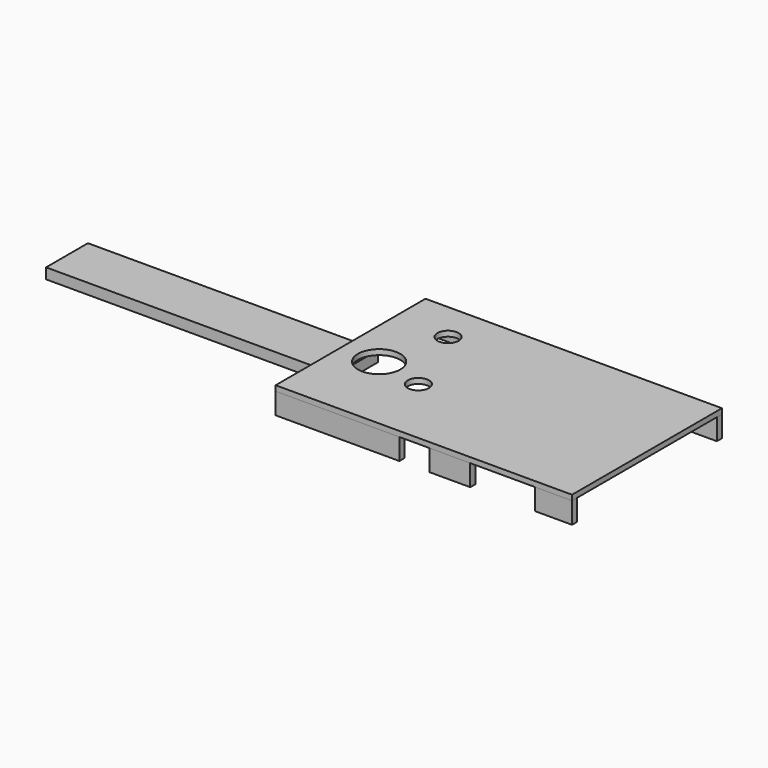
from build123d import *

# Parameters (mm, degrees)
SKETCH003_W       = 7
SKETCH003_H       = 1.2
EXTRUDE024_DEPTH  = 4
SKETCH005_W       = 7.722949
SKETCH005_H       = 1.2
EXTRUDE026_DEPTH  = 4
SKETCH007_W       = 23.35
SKETCH007_H       = 1.2
EXTRUDE028_DEPTH  = 4
SKETCH012_W       = 54.71
SKETCH012_H       = 9.87
EXTRUDE031_DEPTH  = 2
CYLINDER001_R     = 4
CYLINDER001_DEPTH = 10
CYLINDER002_R     = 2
CYLINDER002_DEPTH = 10
CYLINDER_R        = 2
CYLINDER_DEPTH    = 10
SKETCH_W          = 55.926
SKETCH_H          = 35.3506
EXTRUDE_DEPTH     = 1
SKETCH006_W       = 55.926
SKETCH006_H       = 1.2
EXTRUDE027_DEPTH  = 4


with BuildPart() as extrude024:
    # Sketch003 → Extrude024 (new body)
    with BuildSketch(Plane.XY.offset(1.6)):
        with Locations((34.712, -38.799)):
            Rectangle(SKETCH003_W, SKETCH003_H)
    extrude(amount=EXTRUDE024_DEPTH)


with BuildPart() as extrude026:
    # Sketch005 → Extrude026 (new body)
    with BuildSketch(Plane.XY.offset(1.6)):
        with Locations((15.14658, -38.799)):
            Rectangle(SKETCH005_W, SKETCH005_H)
    extrude(amount=EXTRUDE026_DEPTH)


with BuildPart() as extrude028:
    # Sketch007 → Extrude028 (new body)
    with BuildSketch(Plane.XY.offset(1.6)):
        with Locations((-6.039, -38.799)):
            Rectangle(SKETCH007_W, SKETCH007_H)
    extrude(amount=EXTRUDE028_DEPTH)


with BuildPart() as extrude031:
    # Sketch012 → Extrude031 (new body)
    with BuildSketch(Plane.XY.offset(1.6)):
        with Locations((-43.865036, -21.717)):
            Rectangle(SKETCH012_W, SKETCH012_H)
    extrude(amount=EXTRUDE031_DEPTH)


with BuildPart() as cylinder001:
    # Cylinder001 → Cylinder001 (new body)
    with BuildSketch(Plane(origin=(-10.5, -24, 3), x_dir=(1, 0, 0), z_dir=(0, 0, 1))):
        Circle(CYLINDER001_R)
    extrude(amount=CYLINDER001_DEPTH)


with BuildPart() as cylinder002:
    # Cylinder002 → Cylinder002 (new body)
    with BuildSketch(Plane(origin=(-7.5, -11.5, 2.5), x_dir=(1, 0, 0), z_dir=(0, 0, 1))):
        Circle(CYLINDER002_R)
    extrude(amount=CYLINDER002_DEPTH)


with BuildPart() as cylinder:
    # Cylinder → Cylinder (new body)
    with BuildSketch(Plane(origin=(-1.5, -26, 2.5), x_dir=(1, 0, 0), z_dir=(0, 0, 1))):
        Circle(CYLINDER_R)
    extrude(amount=CYLINDER_DEPTH)


with BuildPart() as cut002:
    # Sketch (on Face6 of Extrude027) → Extrude (new body)
    with BuildSketch(Plane.XY.offset(5.6)):
        with Locations((10.249, -21.7237)):
            Rectangle(SKETCH_W, SKETCH_H)
    extrude(amount=EXTRUDE_DEPTH)

    # Cut: cut Cylinder
    add(cylinder.part, mode=Mode.SUBTRACT)

    # Cut001: cut Cylinder002
    add(cylinder002.part, mode=Mode.SUBTRACT)

    # Cut002: cut Cylinder001
    add(cylinder001.part, mode=Mode.SUBTRACT)


with BuildPart() as extrude027:
    # Sketch006 → Extrude027 (new body)
    with BuildSketch(Plane.XY.offset(1.6)):
        with Locations((10.249, -4.6484)):
            Rectangle(SKETCH006_W, SKETCH006_H)
    extrude(amount=EXTRUDE027_DEPTH)


solid = Compound([extrude024.part, extrude026.part, extrude028.part, extrude031.part, cut002.part, extrude027.part])
